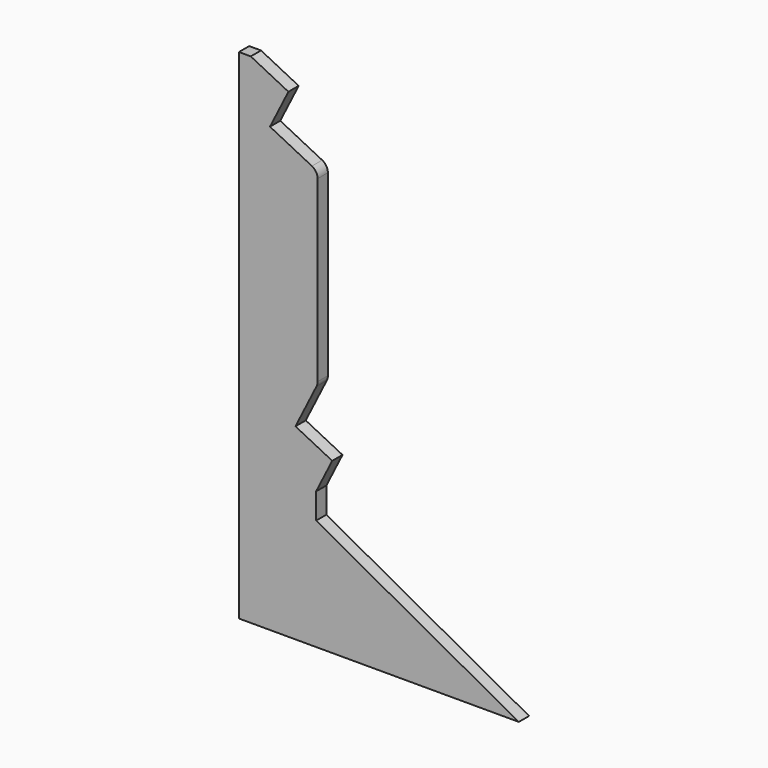
from build123d import *

# Parameters (mm, degrees)
F1_DEPTH = 25


with BuildPart() as f1:
    # F0 (on Front) → F1 (new body)
    with BuildSketch(Plane.XZ):
        with BuildLine():
            Line((-94.497089, -616.691062), (450.114511, -616.691062))
            Line((450.114511, -616.691062), (55.679606, -400.07826))
            Line((55.679606, -400.07826), (55.679606, -350.07826))
            Line((55.679606, -350.07826), (87.044588, -287.498408))
            Line((87.044588, -287.498408), (15.524757, -251.652714))
            Line((15.524757, -251.652714), (56.452731, -169.992647))
            ThreePointArc((56.452731, -169.992647), (58.035548, -165.635616), (58.572774, -161.031224))
            Line((58.572774, -161.031224), (58.572774, 186.727798))
            ThreePointArc((58.572774, 186.727798), (55.591747, 197.232775), (47.537318, 204.606191))
            Line((47.537318, 204.606191), (-34.055112, 245.518085))
            Line((-34.055112, 245.518085), (1.803065, 317.031658))
            Line((1.803065, 317.031658), (-71.498348, 353.786289))
            Line((-71.498348, 353.786289), (-94.497089, 353.786289))
            Line((-94.497089, 353.786289), (-94.497089, -616.691062))
        make_face()
    extrude(amount=F1_DEPTH)


solid = f1.part
